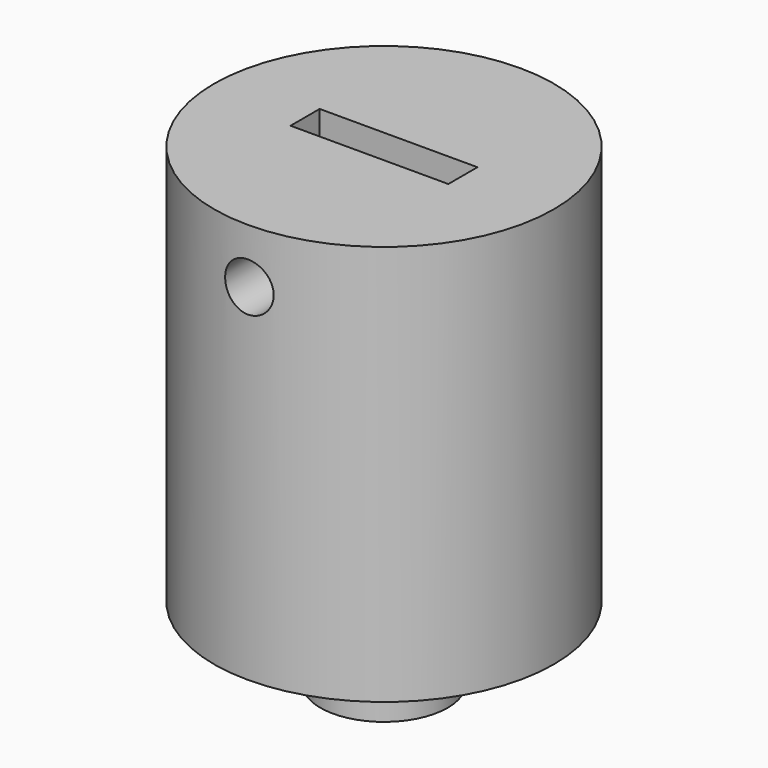
from build123d import *

# Parameters (mm, degrees)
F0_R      = 14
F0_R_2    = 13
F0_R_3    = 5.25
F1_DEPTH  = 33
F2_DEPTH  = 6
F3_R      = 14
F3_R_2    = 5.25
F4_DEPTH  = 10
F7_W      = 13
F7_H      = 3
F8_DEPTH  = 9
F9_R      = 2
F10_DEPTH = 16


with BuildPart() as f1:
    # F0 (on Top) → F1 (new body)
    with BuildSketch(Plane.XY):
        Circle(F0_R)
        Circle(F0_R_2, mode=Mode.SUBTRACT)
        Circle(F0_R_3)
        Polygon((-3.229793, 1.910961), (0.040044, 3.752563), (3.269837, 1.841602), (3.229793, -1.910961), (-0.040044, -3.752563), (-3.269837, -1.841602), align=None, mode=Mode.SUBTRACT)
    extrude(amount=F1_DEPTH)

    # F0 (on Top) → F2 (join)
    with BuildSketch(Plane.XY):
        Circle(F0_R_3)
        Polygon((-3.229793, 1.910961), (0.040044, 3.752563), (3.269837, 1.841602), (3.229793, -1.910961), (-0.040044, -3.752563), (-3.269837, -1.841602), align=None, mode=Mode.SUBTRACT)
    extrude(amount=-F2_DEPTH)


with BuildPart() as f4:
    # F3 (on face) → F4 (new body)
    with BuildSketch(Plane.XY.offset(33)):
        Circle(F3_R)
        Circle(F3_R_2, mode=Mode.SUBTRACT)
        Polygon((-3.229793, 1.910961), (-3.269837, -1.841602), (-0.040044, -3.752563), (3.229793, -1.910961), (3.269837, 1.841602), (0.040044, 3.752563), align=None)
    extrude(amount=-F4_DEPTH)


with BuildPart() as f1_1:
    add(f1.part)

    # F5: union F4
    add(f4.part)

    # F6: union 

    # F7 (on face) → F8 (cut)
    with BuildSketch(Plane.XY.offset(33)):
        Rectangle(F7_W, F7_H)
    extrude(amount=-F8_DEPTH, mode=Mode.SUBTRACT)

    # F9 (on face) → F10 (cut, symmetric)
    with BuildSketch(Plane.XZ.offset(-1.5)):
        with Locations((0, 28.5)):
            Circle(F9_R)
    extrude(amount=F10_DEPTH, both=True, mode=Mode.SUBTRACT)


solid = f1_1.part
